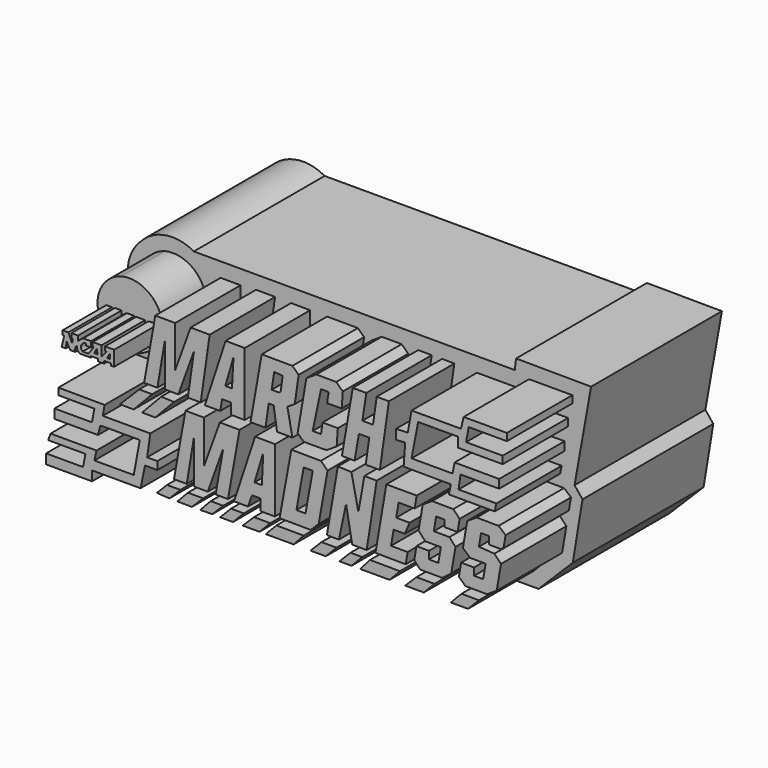
from build123d import *

# Parameters (mm, degrees)
F1_DEPTH = 76.2
F2_DEPTH = 114.3
F3_DEPTH = 114.3
F4_DEPTH = 101.6
F5_DEPTH = 127


with BuildPart() as f1:
    # F0 (on Front) → F1 (new body)
    with BuildSketch(Plane.XZ):
        with BuildLine():
            Line((146.017566, 38.195781), (-3.520092, 38.195781))
            ThreePointArc((-3.520092, 38.195781), (-16.765091, 40.55602), (-28.511599, 33.997037))
            ThreePointArc((-28.511599, 33.997037), (-33.582066, 25.427608), (-33.653881, 15.470722))
            Line((-33.653881, 15.470722), (-25.220536, -5.616488))
            Line((-25.220536, -5.616488), (-41.675847, -5.616488))
            Line((-41.675847, -5.616488), (-49.697809, -52.308436))
            Line((-49.697809, -52.308436), (-15.244499, -52.308436))
            Line((-15.244499, -52.308436), (-15.244499, -47.988918))
            Line((-15.244499, -47.988918), (157.124892, -47.988918))
            Line((157.124892, -47.988918), (173.065975, -32.047831))
            Line((173.065975, -32.047831), (177.59119, -4.588028))
            Line((177.59119, -4.588028), (173.888743, 0))
            Line((173.888743, 0), (181.60218, 42.926684))
            Line((181.60218, 42.926684), (146.634598, 43.125364))
            Line((146.634598, 43.125364), (146.017566, 38.195781))
        make_face()
        Polygon((-36.127336, -15.940022), (-36.127336, -12.760095), (-14.601685, -12.8824), (-15.457818, -17.65229), (6.679357, -17.65229), (5.211698, -27.925896), (9.981588, -27.925896), (9.981588, -31.59504), (4.23326, -31.59504), (2.154079, -41.624036), (-20.472318, -41.624036), (-20.472318, -46.149317), (-41.875664, -46.149317), (-41.875664, -41.624036), (-24.630681, -41.624036), (-23.529937, -35.875712), (-40.897224, -35.875712), (-39.796483, -32.81809), (-18.393135, -32.81809), (-19.371573, -37.221063), (-1.025848, -37.221063), (1.787164, -21.932958), (-16.558561, -21.932958), (-17.659307, -26.213627), (-37.961908, -26.213627), (-37.961908, -21.932958), (-20.472318, -21.932958), (-19.371573, -15.940022), align=None, mode=Mode.SUBTRACT)
        Polygon((9.756359, -41.024551), (14.465095, -36.254663), (20.702641, -36.254663), (15.571358, -41.435713), align=None, mode=Mode.SUBTRACT)
        Polygon((19.296136, -41.452616), (24.18833, -36.254663), (31.343162, -36.254663), (26.084532, -41.491187), align=None, mode=Mode.SUBTRACT)
        Polygon((35.562679, -41.391466), (29.936658, -41.452616), (34.828853, -36.254663), (40.638144, -36.28767), align=None, mode=Mode.SUBTRACT)
        Polygon((45.224763, -41.452616), (39.231826, -41.452616), (44.307478, -36.254663), (50.238375, -36.288361), align=None, mode=Mode.SUBTRACT)
        Polygon((57.57755, -41.452616), (49.750041, -41.452616), (55.009149, -36.254663), (62.59146, -36.297744), align=None, mode=Mode.SUBTRACT)
        Polygon((-1.025848, -10.313999), (-7.508004, -10.313999), (1.542554, -1.263441), (7.535994, -1.297495), align=None, mode=Mode.SUBTRACT)
        Polygon((23.679731, -32.81809), (17.707257, -32.81809), (23.068208, -2.975706), (31.629271, -3.024349), (31.629271, -23.156004), (39.090142, -2.608791), (48.263405, -2.660912), (42.881593, -32.81809), (37.132061, -32.785422), (40.680107, -12.760095), (33.464119, -32.81809), (26.982172, -32.781261), (26.982172, -12.760095), align=None, mode=Mode.SUBTRACT)
        Polygon((52.177046, -32.854859), (45.705818, -32.81809), (55.521657, -3.079155), (64.855501, -3.132188), (64.686613, -32.856525), (57.922136, -32.81809), (57.922136, -27.622276), (54.06738, -27.600374), align=None, mode=Mode.SUBTRACT)
        Polygon((2.87357, -10.313999), (11.816162, -0.896526), (17.707257, -1.185235), (9.005731, -10.348841), align=None, mode=Mode.SUBTRACT)
        Polygon((73.477179, -41.452616), (60.512867, -41.452616), (65.46621, -36.254663), (78.140229, -36.326675), align=None, mode=Mode.SUBTRACT)
        Polygon((88.459522, -41.452616), (81.304692, -41.452616), (86.502641, -36.254663), (93.473103, -36.294268), align=None, mode=Mode.SUBTRACT)
        Polygon((100.445397, -41.452616), (94.819374, -41.452616), (99.956177, -36.254663), (105.459891, -36.254659), align=None, mode=Mode.SUBTRACT)
        Polygon((118.179597, -41.452616), (104.481459, -41.452616), (109.067887, -36.254663), (123.00949, -36.333877), align=None, mode=Mode.SUBTRACT)
        Polygon((134.140372, -41.452616), (125.456735, -41.452616), (130.715847, -36.254663), (139.092414, -36.302257), align=None, mode=Mode.SUBTRACT)
        Polygon((154.748738, -41.452616), (146.737769, -41.452616), (151.691124, -36.254663), (159.808025, -36.300782), align=None, mode=Mode.SUBTRACT)
        Polygon((81.484523, -32.900724), (66.940904, -32.81809), (72.396975, -2.953674), (86.185981, -3.032021), (89.310034, -5.998541), (85.132618, -29.25263), align=None, mode=Mode.SUBTRACT)
        Polygon((88.975944, -32.586891), (94.066545, -2.770505), (100.393437, -2.988675), (103.665963, -18.405927), (106.431687, -2.665153), (112.174541, -2.697783), (107.519651, -32.698037), (100.757048, -32.659613), (97.920857, -16.878746), (94.575012, -32.618704), align=None, mode=Mode.SUBTRACT)
        Polygon((111.602472, -32.530019), (116.683364, -2.770505), (130.808823, -2.770505), (129.845546, -8.412555), (122.385597, -8.370169), (121.261801, -14.9524), (127.519071, -14.987953), (125.264388, -20.271823), (120.062888, -20.242269), (118.864313, -27.262499), (126.604709, -27.306479), (125.699211, -32.610114), align=None, mode=Mode.SUBTRACT)
        Polygon((131.700141, -16.824564), (133.627802, -5.533978), (137.991494, -2.714312), (147.881478, -2.770505), (150.81638, -5.841721), (149.844805, -11.532378), (143.66302, -11.497254), (143.66302, -8.39161), (139.889343, -8.370169), (138.791364, -14.801189), (146.063417, -14.842507), (148.889938, -17.943109), (146.936089, -29.387087), (142.790135, -32.645978), (132.391512, -32.586895), (129.678076, -29.626214), (130.717835, -23.536198), (136.535696, -23.569254), (136.535696, -27.094203), (140.892452, -27.118958), (142.062586, -20.265315), (134.791359, -20.224001), align=None, mode=Mode.SUBTRACT)
        Polygon((160.826145, -8.370169), (159.808025, -14.333447), (167.007595, -14.842507), (170.090005, -18.02227), (168.104122, -29.65387), (163.589303, -32.571189), (153.553858, -32.51417), (150.467857, -29.672574), (151.515744, -23.53495), (157.553337, -23.569254), (157.553337, -26.965692), (161.786266, -26.989743), (162.93448, -20.264491), (155.80827, -20.224001), (152.349309, -17.258424), (154.351044, -5.533978), (158.717929, -2.712248), (168.971121, -2.770505), (172.235358, -5.533978), (171.261762, -11.236473), (170.133671, -11.965406), (164.534483, -11.933592), (164.534483, -8.391239), align=None, mode=Mode.SUBTRACT)
        Polygon((9.981588, 2.152735), (3.815883, 2.17015), (9.005731, 31.461884), (18.257536, 31.409317), (18.17199, 11.769717), (25.482702, 31.903391), (34.344344, 31.853041), (30.180085, 2.703255), (24.18833, 2.737299), (27.03971, 22.696943), (19.744046, 2.604707), (13.498706, 2.640192), (13.498706, 22.753004), align=None, mode=Mode.SUBTRACT)
        Polygon((39.263518, 2.17015), (32.095686, 2.17015), (41.781735, 31.747192), (50.68817, 31.696587), (50.68817, 2.17015), (44.289937, 2.206503), (44.289937, 7.272622), (40.138699, 7.296209), align=None, mode=Mode.SUBTRACT)
        Polygon((60.360822, 2.17015), (53.370401, 2.17015), (58.601834, 31.696587), (72.913732, 31.61527), (75.815445, 28.859877), (74.023819, 16.318503), (70.56397, 14.082869), (72.915465, 2.17015), (65.737152, 2.210936), (64.180724, 12.548059), (61.845278, 12.561329), align=None, mode=Mode.SUBTRACT)
        with BuildLine():
            ThreePointArc((-26.039841, 11.833786), (-26.908724, 25.187763), (-16.834978, 33.997037))
            ThreePointArc((-16.834978, 33.997037), (-5.52894, 32.309099), (1.57423, 23.352504))
            ThreePointArc((1.57423, 23.352504), (1.344164, 15.669017), (-2.488174, 9.005529))
            ThreePointArc((-2.488174, 9.005529), (-14.988046, 4.390392), (-26.039841, 11.833786))
        make_face(mode=Mode.SUBTRACT)
        Polygon((95.873506, 21.601431), (89.087702, 21.542247), (89.777834, 26.373165), (86.233825, 26.393301), (82.359534, 7.964483), (86.234146, 7.942468), (86.949838, 12.952306), (94.066545, 12.91187), (93.524012, 5.238901), (88.774837, 2.17015), (78.140229, 2.17015), (75.332041, 4.836733), (79.402496, 28.677972), (84.074081, 31.696587), (93.323778, 31.644032), (96.378491, 28.743355), align=None, mode=Mode.SUBTRACT)
        Polygon((101.021728, 31.732461), (107.33553, 31.696587), (105.519688, 19.691871), (110.452363, 19.663845), (112.178557, 31.747192), (117.866823, 31.696587), (113.648757, 2.17015), (107.058047, 2.17015), (108.717952, 13.789473), (103.881636, 13.816952), (101.887422, 2.136554), (95.974505, 2.17015), align=None, mode=Mode.SUBTRACT)
        Polygon((121.261801, 16.958671), (121.261801, 21.542247), (126.665011, 21.681938), (128.413394, 31.349435), (151.450828, 31.349435), (152.684972, 36.594566), (172.842741, 36.594566), (172.842741, 33.200655), (155.050427, 33.200655), (153.816283, 26.618533), (170.888662, 26.618533), (170.888662, 23.121778), (150.010988, 23.121778), (150.010988, 27.646989), (131.498769, 27.646989), (128.413394, 11.705905), (147.542685, 11.705905), (148.468301, 16.539654), (169.243142, 16.539654), (169.243142, 12.528671), (151.245132, 12.528671), (150.319532, 6.049392), (167.906135, 6.049392), (167.186216, 2.552638), (145.794317, 2.552638), (146.737769, 7.017204), (124.741364, 7.142184), (125.456735, 17.259574), align=None, mode=Mode.SUBTRACT)
    extrude(amount=F1_DEPTH)

    # F0 (on Front) → F3 (join)
    with BuildSketch(Plane.XZ):
        Polygon((-14.601685, -12.8824), (-36.127336, -12.760095), (-36.127336, -15.940022), (-19.371573, -15.940022), (-20.472318, -21.932958), (-37.961908, -21.932958), (-37.961908, -26.213627), (-17.659307, -26.213627), (-16.558561, -21.932958), (1.787164, -21.932958), (-1.025848, -37.221063), (-19.371573, -37.221063), (-18.393135, -32.81809), (-39.796483, -32.81809), (-40.897224, -35.875712), (-23.529937, -35.875712), (-24.630681, -41.624036), (-41.875664, -41.624036), (-41.875664, -46.149317), (-20.472318, -46.149317), (-20.472318, -41.624036), (2.154079, -41.624036), (4.23326, -31.59504), (9.981588, -31.59504), (9.981588, -27.925896), (5.211698, -27.925896), (6.679357, -17.65229), (-15.457818, -17.65229), align=None)
        Polygon((1.542554, -1.263441), (-7.508004, -10.313999), (-1.025848, -10.313999), (7.535994, -1.297495), align=None)
        Polygon((17.707257, -1.185235), (11.816162, -0.896526), (2.87357, -10.313999), (9.005731, -10.348841), align=None)
        Polygon((126.665011, 21.681938), (121.261801, 21.542247), (121.261801, 16.958671), (125.456735, 17.259574), (124.741364, 7.142184), (146.737769, 7.017204), (145.794317, 2.552638), (167.186216, 2.552638), (167.906135, 6.049392), (150.319532, 6.049392), (151.245132, 12.528671), (169.243142, 12.528671), (169.243142, 16.539654), (148.468301, 16.539654), (147.542685, 11.705905), (128.413394, 11.705905), (131.498769, 27.646989), (150.010988, 27.646989), (150.010988, 23.121778), (170.888662, 23.121778), (170.888662, 26.618533), (153.816283, 26.618533), (155.050427, 33.200655), (172.842741, 33.200655), (172.842741, 36.594566), (152.684972, 36.594566), (151.450828, 31.349435), (128.413394, 31.349435), align=None)
        Polygon((31.343162, -36.254663), (24.18833, -36.254663), (19.296136, -41.452616), (26.084532, -41.491187), align=None)
        Polygon((34.828853, -36.254663), (29.936658, -41.452616), (35.562679, -41.391466), (40.638144, -36.28767), align=None)
        Polygon((44.307478, -36.254663), (39.231826, -41.452616), (45.224763, -41.452616), (50.238375, -36.288361), align=None)
        Polygon((55.009149, -36.254663), (49.750041, -41.452616), (57.57755, -41.452616), (62.59146, -36.297744), align=None)
        Polygon((65.46621, -36.254663), (60.512867, -41.452616), (73.477179, -41.452616), (78.140229, -36.326675), align=None)
        Polygon((86.502641, -36.254663), (81.304692, -41.452616), (88.459522, -41.452616), (93.473103, -36.294268), align=None)
        Polygon((99.956177, -36.254663), (94.819374, -41.452616), (100.445397, -41.452616), (105.459891, -36.254659), align=None)
        Polygon((109.067887, -36.254663), (104.481459, -41.452616), (118.179597, -41.452616), (123.00949, -36.333877), align=None)
        Polygon((130.715847, -36.254663), (125.456735, -41.452616), (134.140372, -41.452616), (139.092414, -36.302257), align=None)
        Polygon((151.691124, -36.254663), (146.737769, -41.452616), (154.748738, -41.452616), (159.808025, -36.300782), align=None)
        Polygon((20.702641, -36.254663), (14.465095, -36.254663), (9.756359, -41.024551), (15.571358, -41.435713), align=None)
    extrude(amount=F3_DEPTH)

    # F0 (on Front) → F4 (join)
    with BuildSketch(Plane.XZ):
        with BuildLine():
            ThreePointArc((1.57423, 23.352504), (-5.52894, 32.309099), (-16.834978, 33.997037))
            ThreePointArc((-16.834978, 33.997037), (-26.908724, 25.187763), (-26.039841, 11.833786))
            ThreePointArc((-26.039841, 11.833786), (-14.988046, 4.390392), (-2.488174, 9.005529))
            ThreePointArc((-2.488174, 9.005529), (1.344164, 15.669017), (1.57423, 23.352504))
        make_face()
        with BuildLine():
            Line((-24.445444, 12.876244), (-23.277929, 17.848993))
            Line((-23.277929, 17.848993), (-24.013031, 17.848993))
            Line((-24.013031, 17.848993), (-24.00172, 19.839747))
            Line((-24.00172, 19.839747), (-21.332072, 19.839747))
            Line((-21.332072, 19.839747), (-19.60242, 15.77341))
            Line((-19.60242, 15.77341), (-19.25104, 17.75661))
            Line((-19.25104, 17.75661), (-19.94835, 17.75661))
            Line((-19.94835, 17.75661), (-19.94835, 20.011056))
            Line((-19.94835, 20.011056), (-16.834978, 20.011056))
            Line((-16.834978, 20.011056), (-16.834978, 17.632786))
            ThreePointArc((-16.834978, 17.632786), (-15.731104, 18.776307), (-14.413465, 19.665128))
            Line((-14.413465, 19.665128), (-10.824438, 19.665128))
            Line((-10.824438, 19.665128), (-10.824438, 17.070649))
            Line((-10.824438, 17.070649), (-13.029744, 17.070649))
            Line((-13.029744, 17.070649), (-13.029744, 18.021958))
            ThreePointArc((-13.029744, 18.021958), (-15.219461, 16.687765), (-14.716154, 14.173483))
            Line((-14.716154, 14.173483), (-11.90547, 14.173483))
            Line((-11.90547, 14.173483), (-9.483959, 17.719269))
            Line((-9.483959, 17.719269), (-10.045674, 18.102879))
            Line((-10.045674, 18.102879), (-10.045674, 19.578645))
            Line((-10.045674, 19.578645), (-5.894931, 19.578645))
            Line((-5.894931, 19.578645), (-5.894931, 14.951826))
            Line((-5.894931, 14.951826), (-3.386936, 17.848993))
            Line((-3.386936, 17.848993), (-4.251762, 17.848993))
            Line((-4.251762, 17.848993), (-4.251762, 19.665128))
            Line((-4.251762, 19.665128), (0, 19.665128))
            Line((0, 19.665128), (0, 12.660038))
            Line((0, 12.660038), (-1.570802, 12.660038))
            Line((-1.570802, 12.660038), (-1.570802, 13.611346))
            Line((-1.570802, 13.611346), (-4.684175, 13.611346))
            Line((-4.684175, 13.611346), (-4.684175, 12.443831))
            Line((-4.684175, 12.443831), (-7.624582, 12.443831))
            Line((-7.624582, 12.443831), (-7.624582, 13.524864))
            Line((-7.624582, 13.524864), (-10.954162, 13.524864))
            Line((-10.954162, 13.524864), (-10.954162, 12.876244))
            Line((-10.954162, 12.876244), (-16.056634, 12.876244))
            ThreePointArc((-16.056634, 12.876244), (-17.072351, 13.989934), (-17.353874, 15.470722))
            ThreePointArc((-17.353874, 15.470722), (-17.916009, 15.081549), (-18.132215, 14.43293))
            Line((-18.132215, 14.43293), (-18.132215, 12.876244))
            Line((-18.132215, 12.876244), (-20.510487, 12.876244))
            Line((-20.510487, 12.876244), (-22.110416, 15.946375))
            Line((-22.110416, 15.946375), (-22.58607, 12.876244))
            Line((-22.58607, 12.876244), (-24.445444, 12.876244))
        make_face(mode=Mode.SUBTRACT)
    extrude(amount=F4_DEPTH)

    # F0 (on Front) → F5 (join)
    with BuildSketch(Plane.XZ):
        with BuildLine():
            Line((-24.013031, 17.848993), (-23.277929, 17.848993))
            Line((-23.277929, 17.848993), (-24.445444, 12.876244))
            Line((-24.445444, 12.876244), (-22.58607, 12.876244))
            Line((-22.58607, 12.876244), (-22.110416, 15.946375))
            Line((-22.110416, 15.946375), (-20.510487, 12.876244))
            Line((-20.510487, 12.876244), (-18.132215, 12.876244))
            Line((-18.132215, 12.876244), (-18.132215, 14.43293))
            ThreePointArc((-18.132215, 14.43293), (-17.916009, 15.081549), (-17.353874, 15.470722))
            ThreePointArc((-17.353874, 15.470722), (-17.072351, 13.989934), (-16.056634, 12.876244))
            Line((-16.056634, 12.876244), (-10.954162, 12.876244))
            Line((-10.954162, 12.876244), (-10.954162, 13.524864))
            Line((-10.954162, 13.524864), (-7.624582, 13.524864))
            Line((-7.624582, 13.524864), (-7.624582, 12.443831))
            Line((-7.624582, 12.443831), (-4.684175, 12.443831))
            Line((-4.684175, 12.443831), (-4.684175, 13.611346))
            Line((-4.684175, 13.611346), (-1.570802, 13.611346))
            Line((-1.570802, 13.611346), (-1.570802, 12.660038))
            Line((-1.570802, 12.660038), (0, 12.660038))
            Line((0, 12.660038), (0, 19.665128))
            Line((0, 19.665128), (-4.251762, 19.665128))
            Line((-4.251762, 19.665128), (-4.251762, 17.848993))
            Line((-4.251762, 17.848993), (-3.386936, 17.848993))
            Line((-3.386936, 17.848993), (-5.894931, 14.951826))
            Line((-5.894931, 14.951826), (-5.894931, 19.578645))
            Line((-5.894931, 19.578645), (-10.045674, 19.578645))
            Line((-10.045674, 19.578645), (-10.045674, 18.102879))
            Line((-10.045674, 18.102879), (-9.483959, 17.719269))
            Line((-9.483959, 17.719269), (-11.90547, 14.173483))
            Line((-11.90547, 14.173483), (-14.716154, 14.173483))
            ThreePointArc((-14.716154, 14.173483), (-15.219461, 16.687765), (-13.029744, 18.021958))
            Line((-13.029744, 18.021958), (-13.029744, 17.070649))
            Line((-13.029744, 17.070649), (-10.824438, 17.070649))
            Line((-10.824438, 17.070649), (-10.824438, 19.665128))
            Line((-10.824438, 19.665128), (-14.413465, 19.665128))
            ThreePointArc((-14.413465, 19.665128), (-15.731104, 18.776307), (-16.834978, 17.632786))
            Line((-16.834978, 17.632786), (-16.834978, 20.011056))
            Line((-16.834978, 20.011056), (-19.94835, 20.011056))
            Line((-19.94835, 20.011056), (-19.94835, 17.75661))
            Line((-19.94835, 17.75661), (-19.25104, 17.75661))
            Line((-19.25104, 17.75661), (-19.60242, 15.77341))
            Line((-19.60242, 15.77341), (-21.332072, 19.839747))
            Line((-21.332072, 19.839747), (-24.00172, 19.839747))
            Line((-24.00172, 19.839747), (-24.013031, 17.848993))
        make_face()
        Polygon((-9.22451, 15.254515), (-8.143478, 17.503062), (-7.711065, 15.254515), align=None, mode=Mode.SUBTRACT)
        Polygon((-3.300453, 15.168033), (-1.959974, 17.503062), (-1.916732, 15.168033), align=None, mode=Mode.SUBTRACT)
    extrude(amount=F5_DEPTH)


with BuildPart() as f2:
    # F0 (on Front) → F2 (new body)
    with BuildSketch(Plane.XZ):
        Polygon((9.005731, 31.461884), (3.815883, 2.17015), (9.981588, 2.152735), (13.498706, 22.753004), (13.498706, 2.640192), (19.744046, 2.604707), (27.03971, 22.696943), (24.18833, 2.737299), (30.180085, 2.703255), (34.344344, 31.853041), (25.482702, 31.903391), (18.17199, 11.769717), (18.257536, 31.409317), align=None)
        Polygon((41.781735, 31.747192), (32.095686, 2.17015), (39.263518, 2.17015), (40.138699, 7.296209), (44.289937, 7.272622), (44.289937, 2.206503), (50.68817, 2.17015), (50.68817, 31.696587), align=None)
        Polygon((41.653659, 13.185548), (45.462392, 26.336456), (44.743765, 13.185548), align=None, mode=Mode.SUBTRACT)
        Polygon((89.777834, 26.373165), (89.087702, 21.542247), (95.873506, 21.601431), (96.378491, 28.743355), (93.323778, 31.644032), (84.074081, 31.696587), (79.402496, 28.677972), (75.332041, 4.836733), (78.140229, 2.17015), (88.774837, 2.17015), (93.524012, 5.238901), (94.066545, 12.91187), (86.949838, 12.952306), (86.234146, 7.942468), (82.359534, 7.964483), (86.233825, 26.393301), align=None)
        Polygon((105.519688, 19.691871), (107.33553, 31.696587), (101.021728, 31.732461), (95.974505, 2.17015), (101.887422, 2.136554), (103.881636, 13.816952), (108.717952, 13.789473), (107.058047, 2.17015), (113.648757, 2.17015), (117.866823, 31.696587), (112.178557, 31.747192), (110.452363, 19.663845), align=None)
        Polygon((23.068208, -2.975706), (17.707257, -32.81809), (23.679731, -32.81809), (26.982172, -12.760095), (26.982172, -32.781261), (33.464119, -32.81809), (40.680107, -12.760095), (37.132061, -32.785422), (42.881593, -32.81809), (48.263405, -2.660912), (39.090142, -2.608791), (31.629271, -23.156004), (31.629271, -3.024349), align=None)
        Polygon((55.521657, -3.079155), (45.705818, -32.81809), (52.177046, -32.854859), (54.06738, -27.600374), (57.922136, -27.622276), (57.922136, -32.81809), (64.686613, -32.856525), (64.855501, -3.132188), align=None)
        Polygon((58.65183, -21.952386), (55.232517, -21.932958), (59.3144, -8.43266), align=None, mode=Mode.SUBTRACT)
        Polygon((72.396975, -2.953674), (66.940904, -32.81809), (81.484523, -32.900724), (85.132618, -29.25263), (89.310034, -5.998541), (86.185981, -3.032021), align=None)
        Polygon((74.807463, -26.922411), (78.140229, -8.370169), (82.359534, -8.31816), (79.013133, -26.946307), align=None, mode=Mode.SUBTRACT)
        Polygon((100.393437, -2.988675), (94.066545, -2.770505), (88.975944, -32.586891), (94.575012, -32.618704), (97.920857, -16.878746), (100.757048, -32.659613), (107.519651, -32.698037), (112.174541, -2.697783), (106.431687, -2.665153), (103.665963, -18.405927), align=None)
        Polygon((130.808823, -2.770505), (116.683364, -2.770505), (111.602472, -32.530019), (125.699211, -32.610114), (126.604709, -27.306479), (118.864313, -27.262499), (120.062888, -20.242269), (125.264388, -20.271823), (127.519071, -14.987953), (121.261801, -14.9524), (122.385597, -8.370169), (129.845546, -8.412555), align=None)
        Polygon((137.991494, -2.714312), (133.627802, -5.533978), (131.700141, -16.824564), (134.791359, -20.224001), (142.062586, -20.265315), (140.892452, -27.118958), (136.535696, -27.094203), (136.535696, -23.569254), (130.717835, -23.536198), (129.678076, -29.626214), (132.391512, -32.586895), (142.790135, -32.645978), (146.936089, -29.387087), (148.889938, -17.943109), (146.063417, -14.842507), (138.791364, -14.801189), (139.889343, -8.370169), (143.66302, -8.39161), (143.66302, -11.497254), (149.844805, -11.532378), (150.81638, -5.841721), (147.881478, -2.770505), align=None)
        Polygon((167.007595, -14.842507), (159.808025, -14.333447), (160.826145, -8.370169), (164.534483, -8.391239), (164.534483, -11.933592), (170.133671, -11.965406), (171.261762, -11.236473), (172.235358, -5.533978), (168.971121, -2.770505), (158.717929, -2.712248), (154.351044, -5.533978), (152.349309, -17.258424), (155.80827, -20.224001), (162.93448, -20.264491), (161.786266, -26.989743), (157.553337, -26.965692), (157.553337, -23.569254), (151.515744, -23.53495), (150.467857, -29.672574), (153.553858, -32.51417), (163.589303, -32.571189), (168.104122, -29.65387), (170.090005, -18.02227), align=None)
        Polygon((58.601834, 31.696587), (53.370401, 2.17015), (60.360822, 2.17015), (61.845278, 12.561329), (64.180724, 12.548059), (65.737152, 2.210936), (72.915465, 2.17015), (70.56397, 14.082869), (74.023819, 16.318503), (75.815445, 28.859877), (72.913732, 31.61527), align=None)
        Polygon((63.212521, 18.647127), (64.434193, 26.336456), (68.368174, 26.085112), (67.428097, 19.275937), (66.661946, 18.647127), align=None, mode=Mode.SUBTRACT)
    extrude(amount=F2_DEPTH)


solid = Compound([f1.part, f2.part])
